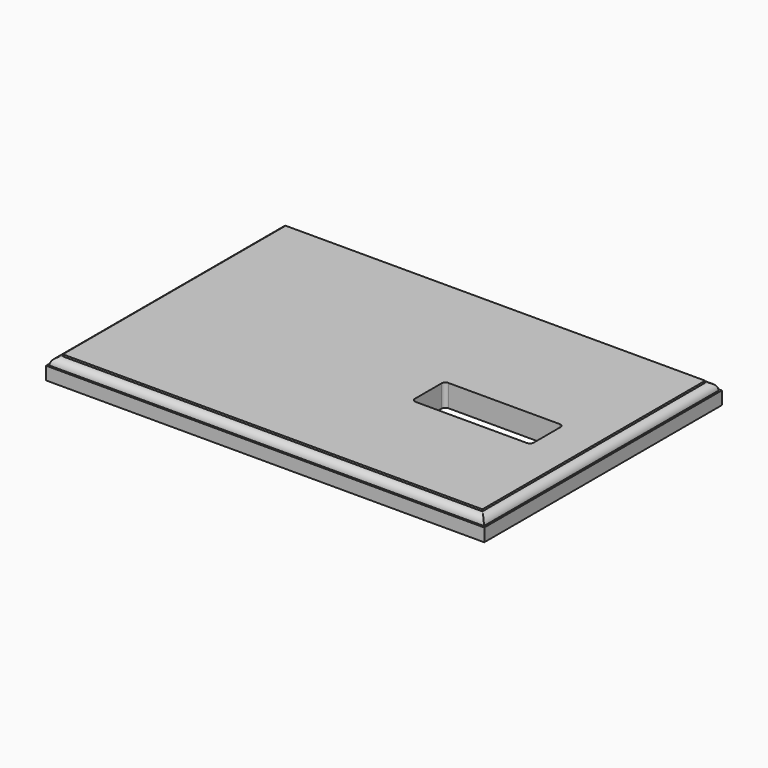
from build123d import *

# Parameters (mm, degrees)
F0_W     = 374.65
F0_H     = 254
F1_DEPTH = 19.05
F3_DEPTH = 152.4
F5_DEPTH = 203.2


with BuildPart() as f1:
    # F0 (on Top) → F1 (new body)
    with BuildSketch(Plane.XY):
        Rectangle(F0_W, F0_H)
        with BuildLine():
            Line((47.498, 9.398), (142.748, 9.398))
            ThreePointArc((142.748, 9.398), (144.993064, 8.468064), (145.923, 6.223))
            Line((145.923, 6.223), (145.923, -22.479))
            ThreePointArc((145.923, -22.479), (144.993064, -24.724064), (142.748, -25.654))
            Line((142.748, -25.654), (47.498, -25.654))
            ThreePointArc((47.498, -25.654), (45.252936, -24.724064), (44.323, -22.479))
            Line((44.323, -22.479), (44.323, 6.223))
            ThreePointArc((44.323, 6.223), (45.252936, 8.468064), (47.498, 9.398))
        make_face(mode=Mode.SUBTRACT)
    extrude(amount=-F1_DEPTH)

    # F2 (on Front) → F3 (cut, symmetric)
    with BuildSketch(Plane.XZ):
        with BuildLine():
            Line((187.325, 0), (179.3748, 0))
            Line((179.3748, 0), (179.3748, -1.6002))
            ThreePointArc((179.3748, -1.6002), (183.864928, -3.460072), (185.7248, -7.9502))
            Line((185.7248, -7.9502), (187.325, -7.9502))
            Line((187.325, -7.9502), (187.325, 0))
        make_face()
        with BuildLine():
            Line((-179.3748, -1.6002), (-179.3748, 0))
            Line((-179.3748, 0), (-187.325, 0))
            Line((-187.325, 0), (-187.325, -7.9502))
            Line((-187.325, -7.9502), (-185.7248, -7.9502))
            ThreePointArc((-185.7248, -7.9502), (-183.864928, -3.460072), (-179.3748, -1.6002))
        make_face()
    extrude(amount=F3_DEPTH, both=True, mode=Mode.SUBTRACT)

    # F4 (on Right) → F5 (cut, symmetric)
    with BuildSketch(Plane.YZ):
        with BuildLine():
            Line((127, 0), (119.0498, 0))
            Line((119.0498, 0), (119.0498, -1.6002))
            ThreePointArc((119.0498, -1.6002), (123.539928, -3.460072), (125.3998, -7.9502))
            Line((125.3998, -7.9502), (127, -7.9502))
            Line((127, -7.9502), (127, 0))
        make_face()
        with BuildLine():
            Line((-119.0498, -1.6002), (-119.0498, 0))
            Line((-119.0498, 0), (-127, 0))
            Line((-127, 0), (-127, -7.9502))
            Line((-127, -7.9502), (-125.3998, -7.9502))
            ThreePointArc((-125.3998, -7.9502), (-123.539928, -3.460072), (-119.0498, -1.6002))
        make_face()
    extrude(amount=F5_DEPTH, both=True, mode=Mode.SUBTRACT)


solid = f1.part
